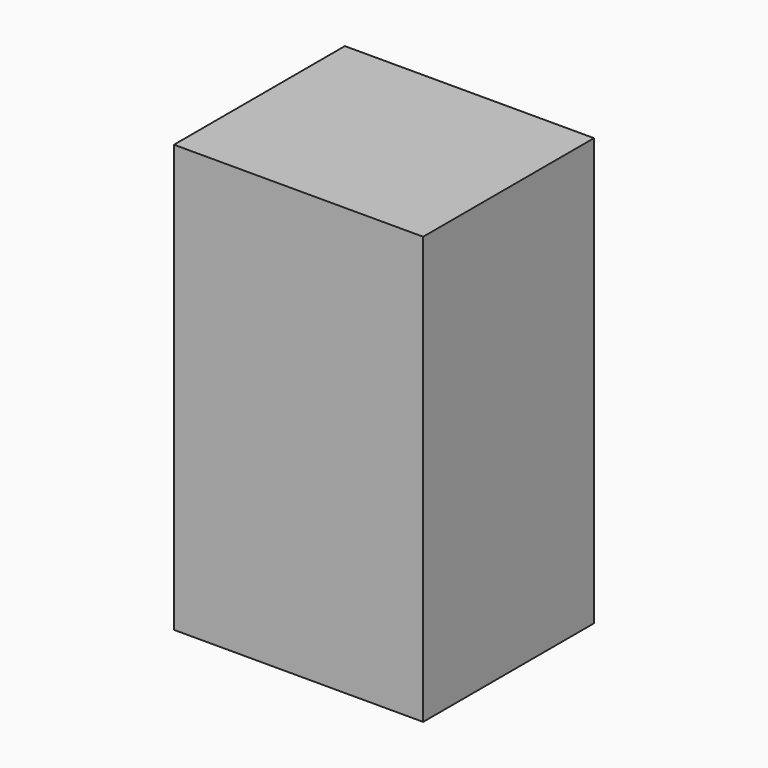
from build123d import *

# Parameters (mm, degrees)
F0_W     = 44.45
F0_H     = 76.2
F1_DEPTH = 38.1
F3_DEPTH = 0.2286


with BuildPart() as f1:
    # F0 (on Front) → F1 (new body)
    with BuildSketch(Plane.XZ):
        with Locations((-22.225, 38.1)):
            Rectangle(F0_W, F0_H)
    extrude(amount=F1_DEPTH)

    # F2 (on face) → F3 (cut)
    with BuildSketch(Plane(origin=(0, 0, 0), x_dir=(-1, 0, 0), z_dir=(0, 1, 0))):
        with BuildLine():
            ThreePointArc((25.4, 38.1), (23.8063428065, 40.8531763344), (20.625209494, 40.8424980104))
            Line((20.625209494, 40.8424980104), (23.824790506, 35.3575019896))
            ThreePointArc((23.824790506, 35.3575019896), (24.9781763344, 36.5186571935), (25.4, 38.1))
        make_face()
        with BuildLine():
            Line((23.824790506, 35.3575019896), (20.625209494, 40.8424980104))
            ThreePointArc((20.625209494, 40.8424980104), (19.4825019896, 36.500209494), (23.824790506, 35.3575019896))
        make_face()
    extrude(amount=-F3_DEPTH, mode=Mode.SUBTRACT)


solid = f1.part
